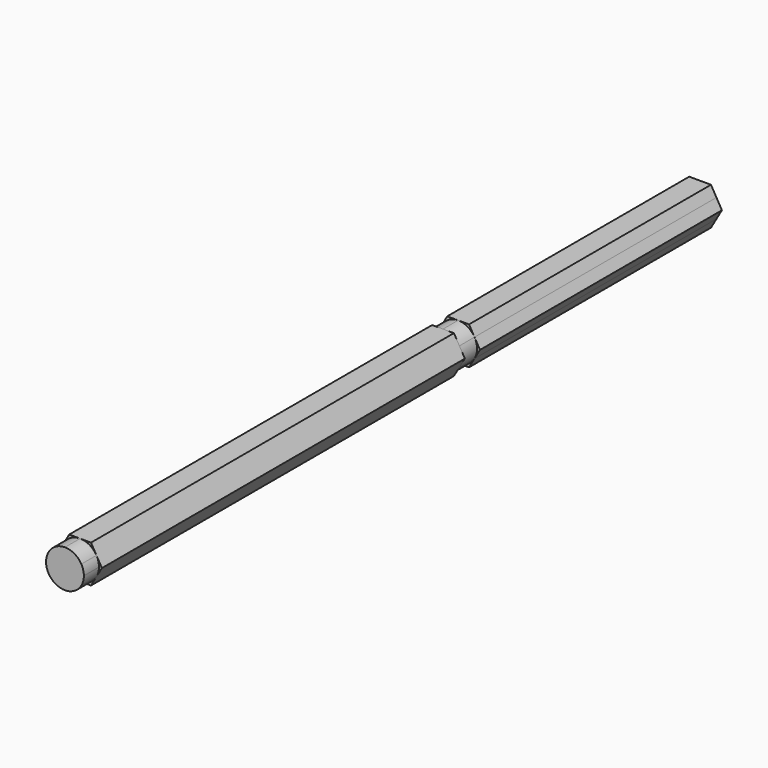
from build123d import *

# Parameters (mm, degrees)
F1_DEPTH = 152.4
F3_DEPTH = 6.35
F5_DEPTH = 6.35
F7_DEPTH = 101.6


with BuildPart() as f1:
    # F0 (on Front) → F1 (new body)
    with BuildSketch(Plane.XZ):
        Polygon((-3.6661742094, -6.35), (3.6661742094, -6.35), (7.3323484187, 0), (3.6661742094, 6.35), (-3.6661742094, 6.35), (-7.3323484187, 0), align=None)
    extrude(amount=F1_DEPTH)

    # F2 (on face) → F3 (join)
    with BuildSketch(Plane.XZ.offset(152.4)):
        with BuildLine():
            ThreePointArc((5.499261351, -3.174999936), (6.1336290065, -1.6435009007), (6.35, 0))
            ThreePointArc((6.35, 0), (6.133629012, 1.6435008802), (5.4992613723, 3.1749998991))
            ThreePointArc((5.4992613723, 3.1749998991), (3.1750000504, 5.4992612849), (0, 6.35))
            ThreePointArc((0, 6.35), (-3.1749999838, 5.4992613234), (-5.4992612953, 3.1750000324))
            ThreePointArc((-5.4992612953, 3.1750000324), (-6.35, 2.13e-08), (-5.4992613166, -3.1749999956))
            ThreePointArc((-5.4992613166, -3.1749999956), (-3.1750000022, -5.4992613128), (0, -6.35))
            ThreePointArc((0, -6.35), (3.175000032, -5.4992612955), (5.499261351, -3.174999936))
        make_face()
    extrude(amount=F3_DEPTH)

    # F4 (on face) → F5 (join)
    with BuildSketch(Plane(origin=(0, 0, 0), x_dir=(-1, 0, 0), z_dir=(0, 1, 0))):
        with BuildLine():
            ThreePointArc((5.4992613166, -3.1749999956), (6.1336289976, -1.6435009339), (6.35, 0))
            ThreePointArc((6.35, 0), (6.1336289972, 1.6435009354), (5.499261315, 3.1749999983))
            ThreePointArc((5.499261315, 3.1749999983), (3.1750000009, 5.4992613135), (0, 6.35))
            ThreePointArc((0, 6.35), (-3.174999954, 5.4992613406), (-5.4992612609, 3.175000092))
            ThreePointArc((-5.4992612609, 3.175000092), (-6.35, 7.29e-08), (-5.4992613338, -3.1749999658))
            ThreePointArc((-5.4992613338, -3.1749999658), (-3.1750000171, -5.4992613042), (0, -6.35))
            ThreePointArc((0, -6.35), (3.1750000022, -5.4992613128), (5.4992613166, -3.1749999956))
        make_face()
    extrude(amount=F5_DEPTH)

    # F6 (on face) → F7 (join)
    with BuildSketch(Plane(origin=(0, 6.35, 0), x_dir=(-1, 0, 0), z_dir=(0, 1, 0))):
        with BuildLine():
            ThreePointArc((-5.4992611496, -3.1750002849), (-3.1749998554, -5.4992613975), (5e-09, -6.35))
            ThreePointArc((5e-09, -6.35), (3.174999908, -5.4992613672), (5.4992612052, -3.1750001884))
            ThreePointArc((5.4992612052, -3.1750001884), (6.1336289688, -1.6435010415), (6.35, 0))
            ThreePointArc((6.35, 0), (6.1336289832, 1.6435009877), (5.4992612609, 3.175000092))
            ThreePointArc((5.4992612609, 3.175000092), (3.174999954, 5.4992613406), (0, 6.35))
            ThreePointArc((0, 6.35), (-3.1750000802, 5.4992612677), (-5.4992614067, 3.1749998395))
            ThreePointArc((-5.4992614067, 3.1749998395), (-6.35, -2.571e-07), (-5.4992611496, -3.1750002849))
        make_face()
        with BuildLine():
            Line((5e-09, -6.35), (3.6661742094, -6.35))
            Line((3.6661742094, -6.35), (5.4992612052, -3.1750001884))
            ThreePointArc((5.4992612052, -3.1750001884), (3.174999908, -5.4992613672), (5e-09, -6.35))
        make_face()
        with BuildLine():
            ThreePointArc((6.35, 0), (6.1336289688, -1.6435010415), (5.4992612052, -3.1750001884))
            Line((5.4992612052, -3.1750001884), (7.3323484187, 0))
            Line((7.3323484187, 0), (5.4992612609, 3.175000092))
            ThreePointArc((5.4992612609, 3.175000092), (6.1336289832, 1.6435009877), (6.35, 0))
        make_face()
        with BuildLine():
            ThreePointArc((0, 6.35), (3.174999954, 5.4992613406), (5.4992612609, 3.175000092))
            Line((5.4992612609, 3.175000092), (3.6661742094, 6.35))
            Line((3.6661742094, 6.35), (0, 6.35))
        make_face()
        with BuildLine():
            Line((-3.6661742094, 6.35), (-5.4992614067, 3.1749998395))
            ThreePointArc((-5.4992614067, 3.1749998395), (-3.1750000802, 5.4992612677), (0, 6.35))
            Line((0, 6.35), (-3.6661742094, 6.35))
        make_face()
        with BuildLine():
            Line((-7.3323484187, 0), (-5.4992611496, -3.1750002849))
            ThreePointArc((-5.4992611496, -3.1750002849), (-6.35, -2.571e-07), (-5.4992614067, 3.1749998395))
            Line((-5.4992614067, 3.1749998395), (-7.3323484187, 0))
        make_face()
        with BuildLine():
            Line((-3.6661742094, -6.35), (5e-09, -6.35))
            ThreePointArc((5e-09, -6.35), (-3.1749998554, -5.4992613975), (-5.4992611496, -3.1750002849))
            Line((-5.4992611496, -3.1750002849), (-3.6661742094, -6.35))
        make_face()
    extrude(amount=F7_DEPTH)


solid = f1.part
